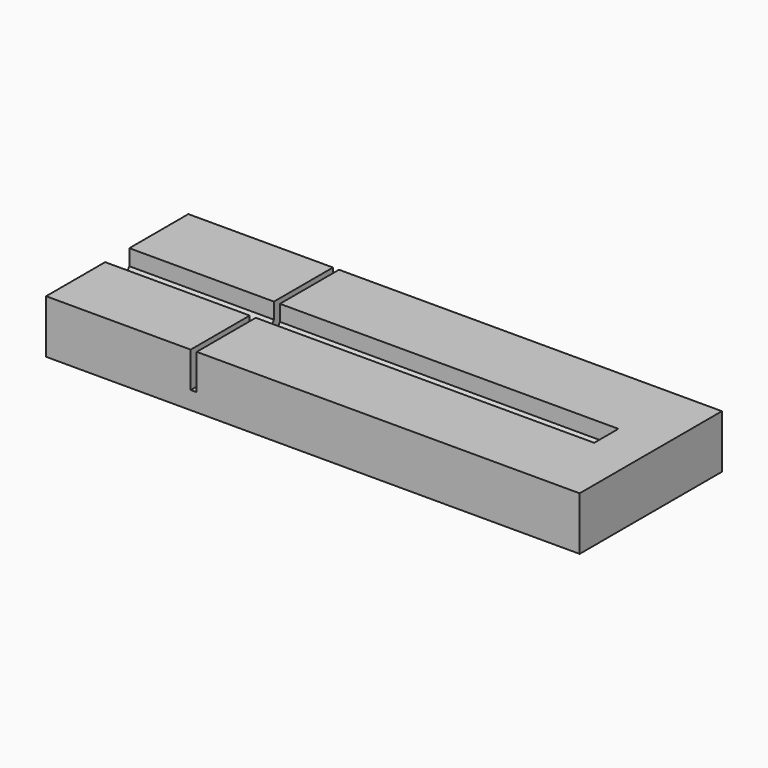
from build123d import *

# Parameters (mm, degrees)
F0_W     = 76.2
F0_H     = 25.4
F1_DEPTH = 7.62
F3_DEPTH = 69.85
F4_W     = 0.860754
F4_H     = 25.4
F5_DEPTH = 5.08


with BuildPart() as f1:
    # F0 (on Top) → F1 (new body)
    with BuildSketch(Plane.XY):
        Rectangle(F0_W, F0_H)
    extrude(amount=F1_DEPTH)

    # F2 (on face) → F3 (cut)
    with BuildSketch(Plane(origin=(-38.1, 0, 0), x_dir=(0, -1, 0), z_dir=(-1, 0, 0))):
        Polygon((2.159, 7.62), (-2.159, 7.62), (-2.159, 5.349967), (0, 2.54), (2.159, 5.349967), align=None)
    extrude(amount=-F3_DEPTH, mode=Mode.SUBTRACT)

    # F4 (on face) → F5 (cut)
    with BuildSketch(Plane.XY.offset(7.62)):
        with Locations((-17.018, 0)):
            Rectangle(F4_W, F4_H)
    extrude(amount=-F5_DEPTH, mode=Mode.SUBTRACT)


solid = f1.part
